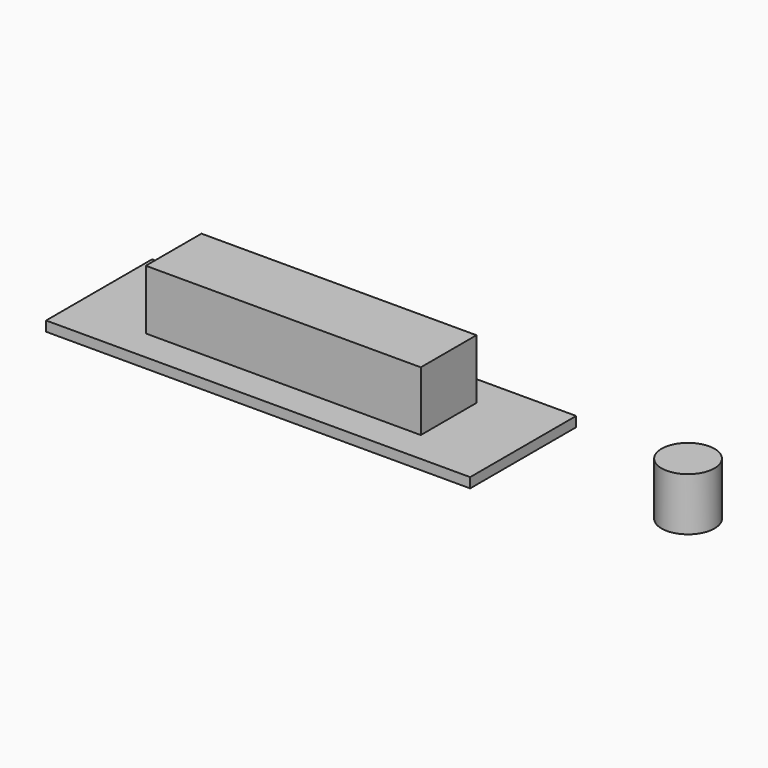
from build123d import *

# Parameters (mm, degrees)
F0_W     = 12.8
F0_H     = 4
F0_W_2   = 8.3
F0_H_2   = 2.1
F1_DEPTH = 0.3
F2_DEPTH = 2.1
F3_R     = 0.95
F4_DEPTH = 1.5
F5_R     = 0.8
F6_DEPTH = 1.6


with BuildPart() as f1:
    # F0 (on Top) → F1 (new body)
    with BuildSketch(Plane.XY):
        Rectangle(F0_W, F0_H)
        Rectangle(F0_W_2, F0_H_2, mode=Mode.SUBTRACT)
        Rectangle(F0_W_2, F0_H_2)
    extrude(amount=F1_DEPTH)

    # F0 (on Top) → F2 (join)
    with BuildSketch(Plane.XY):
        Rectangle(F0_W_2, F0_H_2)
    extrude(amount=F2_DEPTH)

    # F3 (on face) → F4 (cut)
    with BuildSketch(Plane(origin=(0, 0, 0), x_dir=(1, 0, 0), z_dir=(0, 0, -1))):
        Circle(F3_R)
    extrude(amount=-F4_DEPTH, mode=Mode.SUBTRACT)


with BuildPart() as f6:
    # F5 (on Top) → F6 (new body)
    with BuildSketch(Plane.XY):
        with Locations((11.37642, 0)):
            Circle(F5_R)
    extrude(amount=F6_DEPTH)


solid = Compound([f1.part, f6.part])
